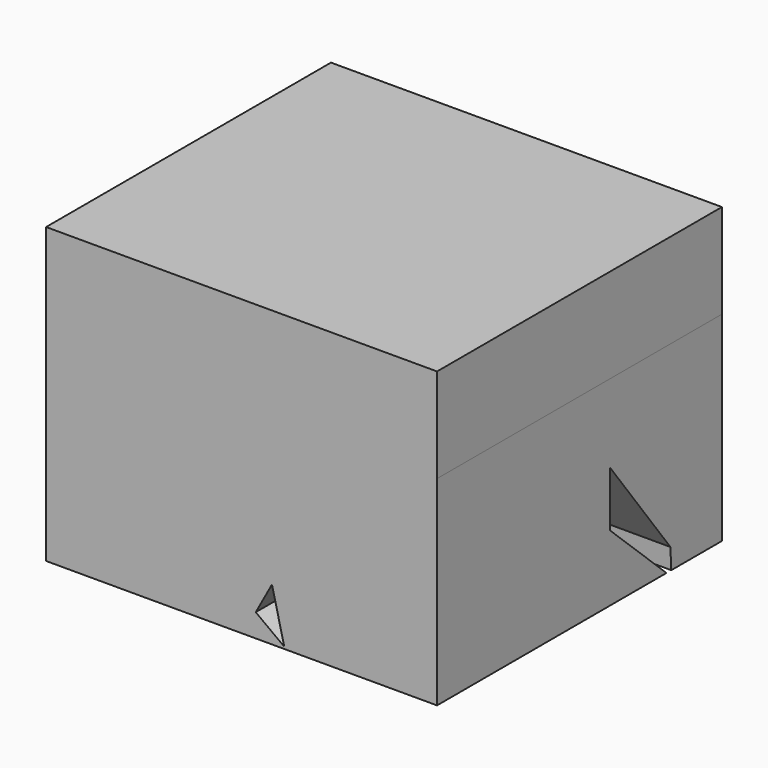
from build123d import *

# Parameters (mm, degrees)
F0_W      = 49.733065
F0_H      = 45.29678
F1_DEPTH  = 25.4
F1_FACE_W = 49.733066
F1_FACE_H = 45.29678
F2_DEPTH  = 12
F5_DEPTH  = 49.734065
F7_DEPTH  = 45.297781


with BuildPart() as f1:
    # F0 (on Top) → F1 (new body)
    with BuildSketch(Plane.XY):
        with Locations((2.985905, 5.489435)):
            Rectangle(F0_W, F0_H)
    extrude(amount=F1_DEPTH)

    # F1_face (on face) → F2 (join)
    with BuildSketch(Plane(origin=(2.985906, 5.489435, 25.4), x_dir=(1, 0, 0), z_dir=(0, 0, 1))):
        Rectangle(F1_FACE_W, F1_FACE_H)
    extrude(amount=F2_DEPTH)

    # F4 (on face) → F5 (cut, through all)
    with BuildSketch(Plane.YZ.offset(27.852438)):
        Polygon((10.376193, 15.41099), (10.376193, 8.385699), (19.320368, 0), (20.085741, 0), (19.943943, 2.660368), align=None)
    extrude(amount=-F5_DEPTH, mode=Mode.SUBTRACT)

    # F6 (on face) → F7 (cut, through all)
    with BuildSketch(Plane.XZ.offset(17.158955)):
        Polygon((6.854975, 6.713986), (4.791144, 2.940124), (8.41759, 0.257144), align=None)
    extrude(amount=-F7_DEPTH, mode=Mode.SUBTRACT)


solid = f1.part
